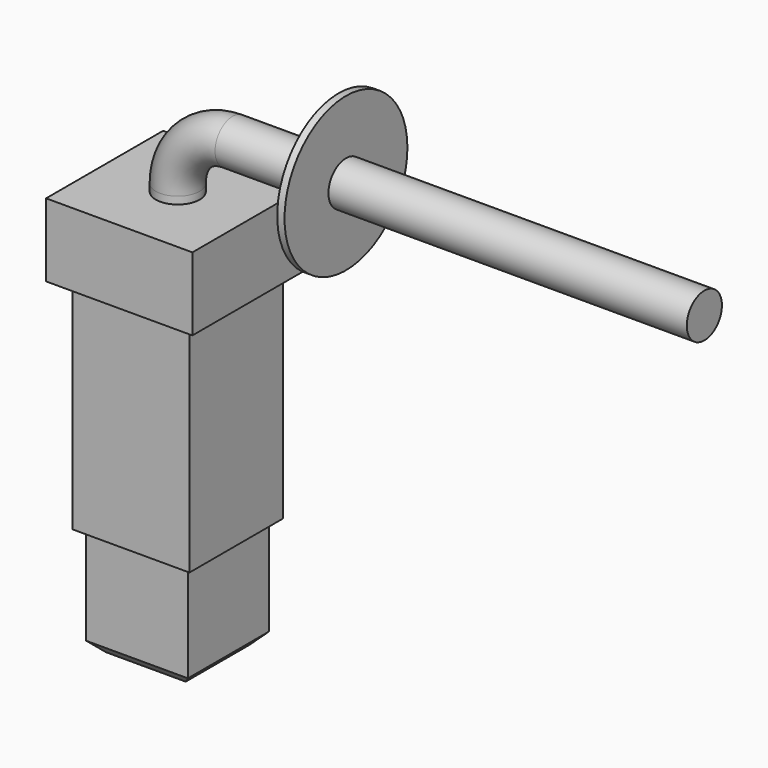
from build123d import *

# Parameters (mm, degrees)
F0_W      = 27.8
F0_H      = 27.8
F1_DEPTH  = 30
F2_W      = 32
F2_H      = 32
F2_W_2    = 27.8
F2_H_2    = 27.8
F3_DEPTH  = 80
F4_W      = 40
F4_H      = 40
F5_DEPTH  = 20
F7_R      = 6
F10_R     = 21
F11_DEPTH = 2
F12_SIZE  = 3


with BuildPart() as f1:
    # F0 (on Top) → F1 (new body)
    with BuildSketch(Plane.XY):
        Rectangle(F0_W, F0_H)
    extrude(amount=F1_DEPTH)

    # F2 (on face) → F3 (join)
    with BuildSketch(Plane.XY.offset(30)):
        Rectangle(F2_W, F2_H)
        Rectangle(F2_W_2, F2_H_2, mode=Mode.SUBTRACT)
        Rectangle(F2_W_2, F2_H_2)
    extrude(amount=F3_DEPTH)

    # F4 (on face) → F5 (join)
    with BuildSketch(Plane.XY.offset(110)):
        Rectangle(F4_W, F4_H)
    extrude(amount=-F5_DEPTH)

    # F8: sweep along a path in F6
    with BuildLine(Plane.XZ) as f8_path:
        Line((0, 110), (0, 112))
        ThreePointArc((0, 112), (4.3933982822, 122.6066017178), (15, 127))
        Line((15, 127), (144, 127))
    # F7 (on face) → F8 (sweep)
    with BuildSketch(Plane.XY.offset(110)):
        Circle(F7_R)
    sweep(path=f8_path.line)

    # F10 (on offset) → F11 (join)
    with BuildSketch(Plane.YZ.offset(44)):
        with Locations((0, 127)):
            Circle(F10_R)
    extrude(amount=F11_DEPTH)

    # F12
    f12_edges = [f1.edges().sort_by_distance(p)[0] for p in [
        (0, -13.9, 0),
        (13.9, 0, 0),
        (0, 13.9, 0),
        (-13.9, 0, 0),
    ]]
    chamfer(f12_edges, length=F12_SIZE)


solid = f1.part
